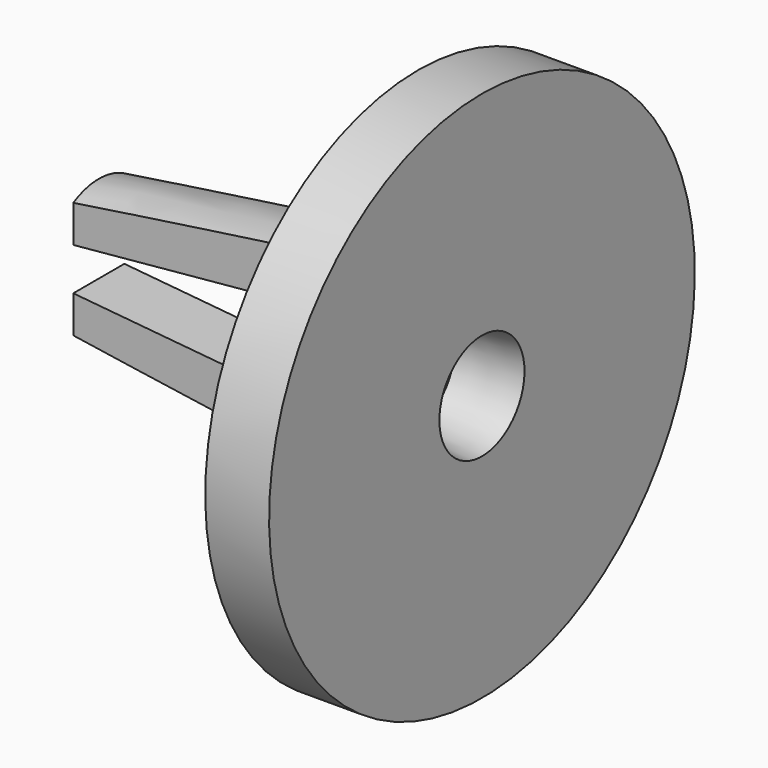
from build123d import *

# Parameters (mm, degrees)
F3_W     = 20
F3_H     = 4.5714285318
F4_DEPTH = 12.501
F5_DEPTH = 25
F7_DEPTH = 14.001


with BuildPart() as f2:
    # F0 (on Front) → F2 (revolve)
    with BuildSketch(Plane.XZ):
        Polygon((-18, 3.1265491901), (-18, 0.1), (0, 2.5), (0, 12.5), (-3, 12.5), (-3, 5.1265491901), align=None)
    revolve(axis=Axis((-8.8342446834, 0, 0), (-1, 0, 0)))

    # F3 (on Top) → F4 (cut, through all)
    with BuildSketch(Plane.XY):
        with Locations((-13, 3.7857142659)):
            Rectangle(F3_W, F3_H)
        with Locations((-13, -3.7857142659)):
            Rectangle(F3_W, F3_H)
    extrude(amount=F4_DEPTH, mode=Mode.SUBTRACT)

    # F3 (on Top) → F5 (cut)
    with BuildSketch(Plane.XY):
        with Locations((-13, 3.7857142659)):
            Rectangle(F3_W, F3_H)
        with Locations((-13, -3.7857142659)):
            Rectangle(F3_W, F3_H)
    extrude(amount=-F5_DEPTH, mode=Mode.SUBTRACT)

    # F6 (on face) → F7 (cut, through all)
    with BuildSketch(Plane.XZ.offset(1.5)):
        Polygon((-3, 0), (-3, 2.4047132604), (-18, 1), (-18, 0), (-18, -1), (-3, -2.4047132604), align=None)
    extrude(amount=-F7_DEPTH, mode=Mode.SUBTRACT)


solid = f2.part
